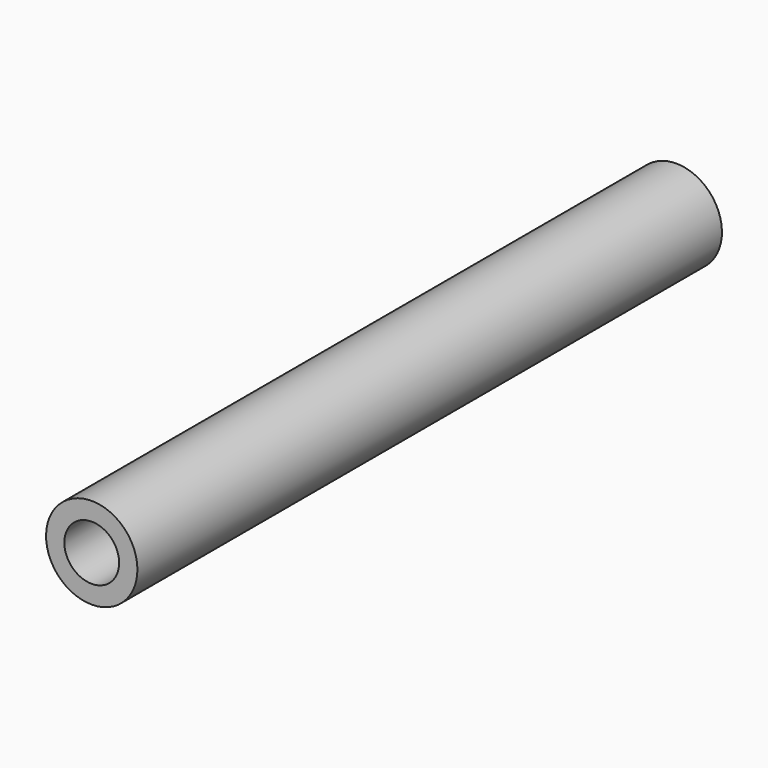
from build123d import *

# Parameters (mm, degrees)
CYLINDER005_R           = 1.5
CYLINDER005_DEPTH       = 44
CYLINDER005_PITCH_ANGLE = 90
CYLINDER004_R           = 2.5
CYLINDER004_DEPTH       = 40
CYLINDER004_PITCH_ANGLE = 90
CUT004_PLACEMENT_ANGLE  = 90


with BuildPart() as cilindro005:
    # Cylinder005 → Cylinder005 (new body)
    with BuildSketch(Plane.XY):
        Circle(CYLINDER005_R)
    extrude(amount=CYLINDER005_DEPTH)


with BuildPart() as cilindro005_1:
    # Cylinder005 pitch: moved
    add(cilindro005.part.rotate(Axis((0, 0, 0), (0, 1, 0)), CYLINDER005_PITCH_ANGLE))


with BuildPart() as cilindro005_2:
    # Cylinder005 placement: moved
    add(cilindro005_1.part.moved(Location((-2, 0, 0))))


with BuildPart() as soporte005:
    # Cylinder004 → Cylinder004 (new body)
    with BuildSketch(Plane.XY):
        Circle(CYLINDER004_R)
    extrude(amount=CYLINDER004_DEPTH)


with BuildPart() as soporte005_1:
    # Cylinder004 pitch: moved
    add(soporte005.part.rotate(Axis((0, 0, 0), (0, 1, 0)), CYLINDER004_PITCH_ANGLE))


with BuildPart() as soporte005_2:
    # Cylinder004 placement: moved
    add(soporte005_1.part)

    # Cut004: cut Cilindro005
    add(cilindro005_2.part, mode=Mode.SUBTRACT)


with BuildPart() as soporte005_3:
    # Cut004 placement: moved
    add(soporte005_2.part.moved(Location((-65.5, 125, 92.5))).rotate(Axis((-65.5, 125, 92.5), (0, 0, 1)), CUT004_PLACEMENT_ANGLE))


solid = soporte005_3.part
